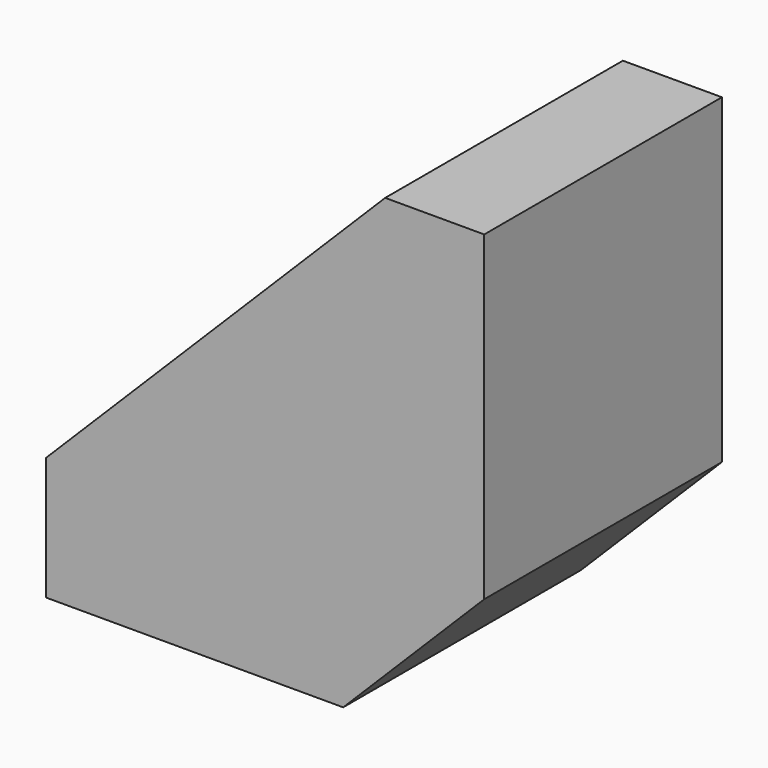
from build123d import *

# Parameters (mm, degrees)
F1_DEPTH = 45
F3_DEPTH = 45.001
F5_DEPTH = 45.001


with BuildPart() as f1:
    # F0 (on Front) → F1 (new body)
    with BuildSketch(Plane.XZ):
        Polygon((85, 85), (0, 0), (63.63961, 0), (85, 21.36039), align=None)
    extrude(amount=F1_DEPTH)

    # F2 (on face) → F3 (cut, through all)
    with BuildSketch(Plane.XZ.offset(45)):
        Polygon((0, 0), (18.63961, 0), (18.63961, 18.63961), align=None)
    extrude(amount=-F3_DEPTH, mode=Mode.SUBTRACT)

    # F4 (on face) → F5 (cut, through all)
    with BuildSketch(Plane.XZ.offset(45)):
        Polygon((85, 85), (70, 70), (85, 70), align=None)
    extrude(amount=-F5_DEPTH, mode=Mode.SUBTRACT)


solid = f1.part
